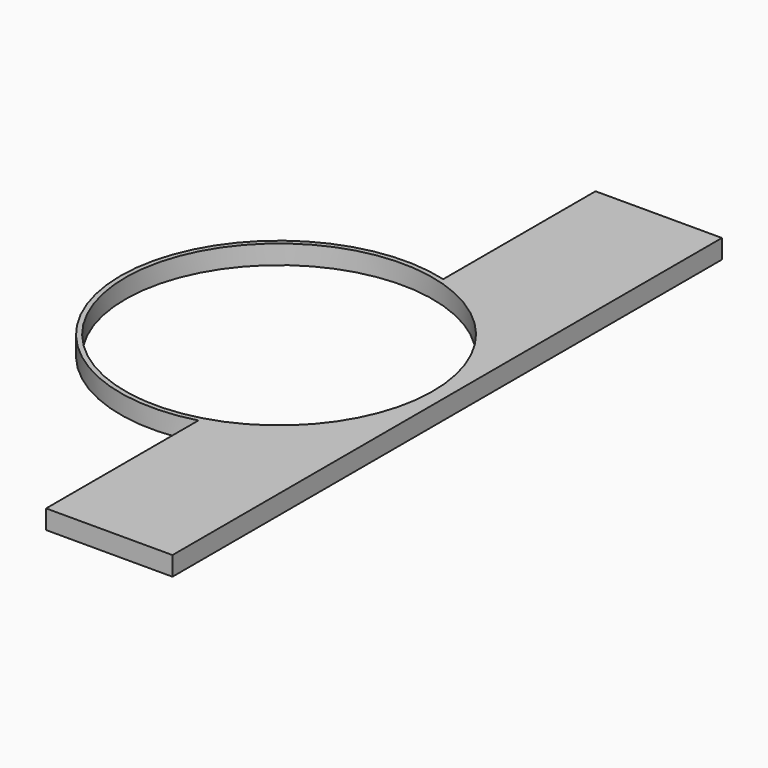
from build123d import *

# Parameters (mm, degrees)
F1_DEPTH = 25.4


with BuildPart() as f1:
    # F0 (on Top) → F1 (new body)
    with BuildSketch(Plane.XY):
        with BuildLine():
            Line((-177.8, 0), (-9.525, 0))
            Line((-9.525, 0), (-9.525, 914.4))
            Line((-9.525, 914.4), (-177.8, 914.4))
            Line((-177.8, 914.4), (-177.8, 660.8954896408))
            ThreePointArc((-177.8, 660.8954896408), (-65.5674296761, 585.3556018333), (-22.225, 457.2))
            ThreePointArc((-22.225, 457.2), (-65.5674296761, 329.0443981667), (-177.8, 253.5045103592))
            Line((-177.8, 253.5045103592), (-177.8, 0))
        make_face()
        with BuildLine():
            ThreePointArc((-177.8, 660.8954896408), (-444.5, 457.2), (-177.8, 253.5045103592))
            Line((-177.8, 253.5045103592), (-177.8, 260.0941179214))
            ThreePointArc((-177.8, 260.0941179214), (-438.15, 457.2), (-177.8, 654.3058820786))
            Line((-177.8, 654.3058820786), (-177.8, 660.8954896408))
        make_face()
        with BuildLine():
            Line((-177.8, 260.0941179214), (-177.8, 253.5045103592))
            ThreePointArc((-177.8, 253.5045103592), (-65.5674296761, 329.0443981667), (-22.225, 457.2))
            ThreePointArc((-22.225, 457.2), (-65.5674296761, 585.3556018333), (-177.8, 660.8954896408))
            Line((-177.8, 660.8954896408), (-177.8, 654.3058820786))
            ThreePointArc((-177.8, 654.3058820786), (-70.0890704026, 580.8111133505), (-28.575, 457.2))
            ThreePointArc((-28.575, 457.2), (-70.0890704026, 333.5888866495), (-177.8, 260.0941179214))
        make_face()
    extrude(amount=F1_DEPTH)


solid = f1.part
